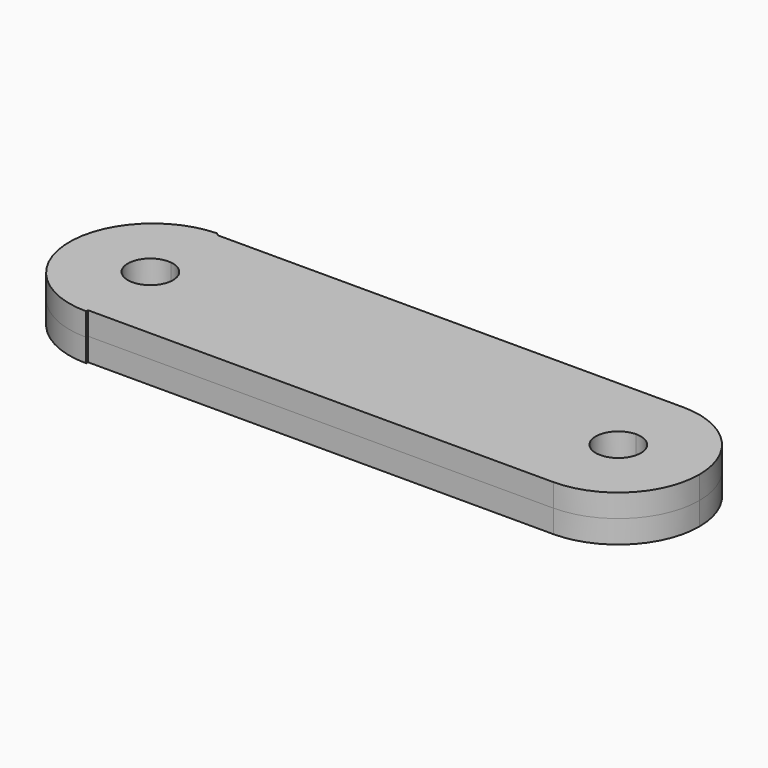
from build123d import *

# Parameters (mm, degrees)
F1_DEPTH = 1.625


with BuildPart() as f1:
    # F0 (on Top) → F1 (new body, symmetric)
    with BuildSketch(Plane.XY):
        with BuildLine():
            Line((16.5, 1.5999669282), (16.5, 5.7536481874))
            Line((16.5, 5.7536481874), (-16.5, 5.7536481874))
            Line((-16.5, 5.7536481874), (-16.5, 1.5900631859))
            ThreePointArc((-16.5, 1.5900631859), (-15.485384, 1.0665674616), (-15.0780423122, 0))
            ThreePointArc((-15.0780423122, 0), (-15.485384, -1.0665674616), (-16.5, -1.5900631859))
            Line((-16.5, -1.5900631859), (-16.5, -5.7536481874))
            Line((-16.5, -5.7536481874), (16.5, -5.7536481874))
            Line((16.5, -5.7536481874), (16.5, -1.5999669282))
            ThreePointArc((16.5, -1.5999669282), (14.9102872998, 0), (16.5, 1.5999669282))
        make_face()
        with BuildLine():
            ThreePointArc((22.2536481874, 0), (20.5684436499, 4.0684436499), (16.5, 5.7536481874))
            Line((16.5, 5.7536481874), (16.5, 1.5999669282))
            ThreePointArc((16.5, 1.5999669282), (17.6380151748, 1.1350021321), (18.1102872998, 0))
            ThreePointArc((18.1102872998, 0), (17.6380151748, -1.1350021321), (16.5, -1.5999669282))
            Line((16.5, -1.5999669282), (16.5, -5.7536481874))
            ThreePointArc((16.5, -5.7536481874), (20.5684436499, -4.0684436499), (22.2536481874, 0))
        make_face()
        with BuildLine():
            Line((-16.5, 1.5900631859), (-16.5, 5.7536481874))
            Line((-16.5, 5.7536481874), (-16.6908068726, 5.9149590773))
            ThreePointArc((-16.6908068726, 5.9149590773), (-20.7516085226, 4.1166701495), (-22.4180358354, 0))
            ThreePointArc((-22.4180358354, 0), (-20.6846832705, -4.1846832705), (-16.5, -5.9180358354))
            Line((-16.5, -5.9180358354), (-16.5, -5.7536481874))
            Line((-16.5, -5.7536481874), (-16.5, -1.5900631859))
            ThreePointArc((-16.5, -1.5900631859), (-18.2780423122, 0), (-16.5, 1.5900631859))
        make_face()
        with BuildLine():
            Line((16.5, 1.5999669282), (16.5, 5.7536481874))
            Line((16.5, 5.7536481874), (-16.5, 5.7536481874))
            Line((-16.5, 5.7536481874), (-16.5, 1.5900631859))
            ThreePointArc((-16.5, 1.5900631859), (-15.485384, 1.0665674616), (-15.0780423122, 0))
            ThreePointArc((-15.0780423122, 0), (-15.485384, -1.0665674616), (-16.5, -1.5900631859))
            Line((-16.5, -1.5900631859), (-16.5, -5.7536481874))
            Line((-16.5, -5.7536481874), (16.5, -5.7536481874))
            Line((16.5, -5.7536481874), (16.5, -1.5999669282))
            ThreePointArc((16.5, -1.5999669282), (14.9102872998, 0), (16.5, 1.5999669282))
        make_face()
    extrude(amount=F1_DEPTH, both=True)


solid = f1.part
